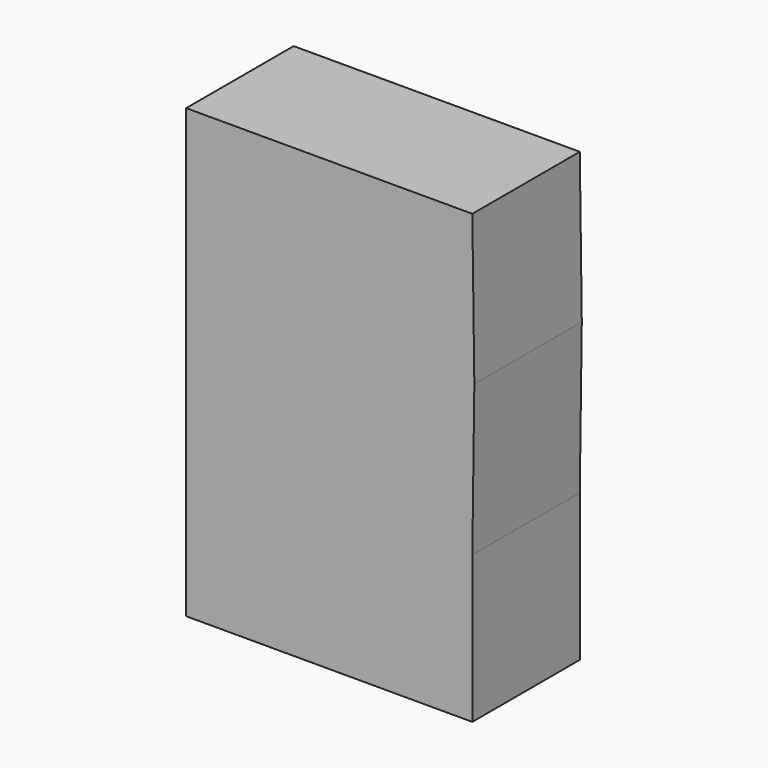
from build123d import *

# Parameters (mm, degrees)
F0_W     = 22.8000022471
F0_H     = 22.2000004724
F0_H_2   = 22.5000008941
F0_W_2   = 19.800000824
F0_H_3   = 21.8999991193
F1_DEPTH = 20


with BuildPart() as f1:
    # F0 (on Front) → F1 (new body)
    with BuildSketch(Plane.XZ):
        Polygon((-5.2499999292, 8.1000002101), (-5.5499998853, 30.3000006825), (-25.3500007093, 30.3000006825), (-25.3500007093, 8.1000002101), align=None)
        with Locations((-36.7500018328, 19.2000004463)):
            Rectangle(F0_W, F0_H)
        Polygon((-5.5499998853, -14.400000684), (-5.2499999292, 8.1000002101), (-25.3500007093, 8.1000002101), (-25.3500007093, -14.400000684), align=None)
        with Locations((-36.7500018328, -3.1500002369)):
            Rectangle(F0_W, F0_H_2)
        with Locations((-15.4500002973, -25.3500002436)):
            Rectangle(F0_W_2, F0_H_3)
        with Locations((-36.7500018328, -25.3500002436)):
            Rectangle(F0_W, F0_H_3)
    extrude(amount=F1_DEPTH)


solid = f1.part
